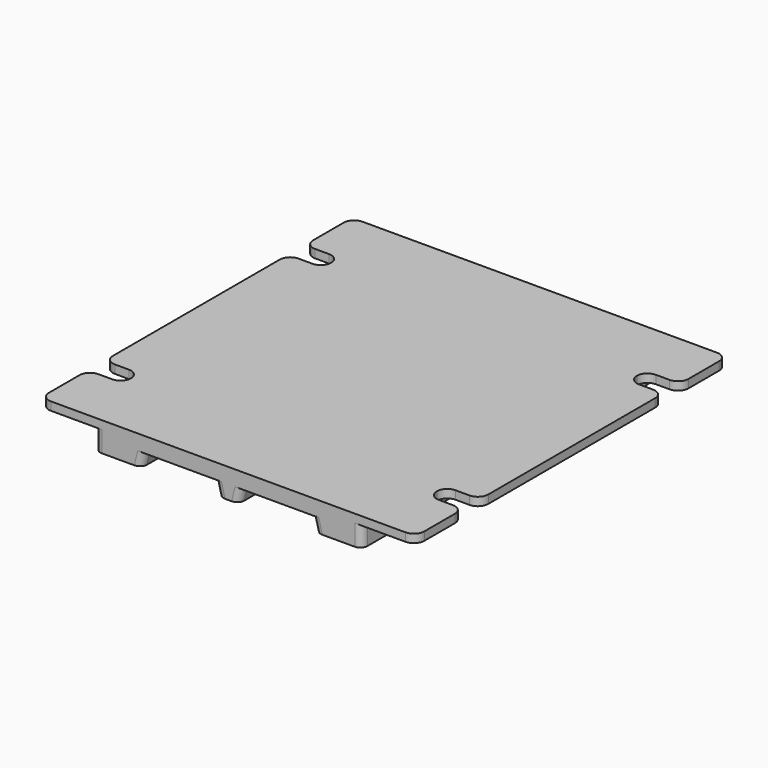
from build123d import *

# Parameters (mm, degrees)
F1_DEPTH = 56
F3_DEPTH = 25
F4_R     = 1.5
F5_R     = 1


with BuildPart() as f1:
    # F0 (on Front) → F1 (new body)
    with BuildSketch(Plane.XZ):
        Polygon((-1.5, 0), (0, 0), (0, 4.2), (-27, 4.2), (-27, 3), (-19.2, 3), (-19.2, 0), (-12.5, 0), (-12, 2), (-2, 2), align=None)
        Polygon((0, 4.2), (0, 0), (1.5, 0), (2, 2), (12, 2), (12.5, 0), (19.2, 0), (19.2, 3), (27, 3), (27, 4.2), align=None)
    extrude(amount=F1_DEPTH)

    # F2 (on face) → F3 (cut)
    with BuildSketch(Plane.XY.offset(4.2)):
        with BuildLine():
            Line((27, -47.5), (27, -44.5))
            Line((27, -44.5), (23.5, -44.5))
            ThreePointArc((23.5, -44.5), (22.4393398282, -44.9393398282), (22, -46))
            ThreePointArc((22, -46), (22.4393398282, -47.0606601718), (23.5, -47.5))
            Line((23.5, -47.5), (27, -47.5))
        make_face()
        with BuildLine():
            Line((27, -11.5), (27, -8.5))
            Line((27, -8.5), (23.5, -8.5))
            ThreePointArc((23.5, -8.5), (22.4393398282, -8.9393398282), (22, -10))
            ThreePointArc((22, -10), (22.4393398282, -11.0606601718), (23.5, -11.5))
            Line((23.5, -11.5), (27, -11.5))
        make_face()
        with BuildLine():
            ThreePointArc((-22, -10), (-22.4393398282, -8.9393398282), (-23.5, -8.5))
            Line((-23.5, -8.5), (-27, -8.5))
            Line((-27, -8.5), (-27, -11.5))
            Line((-27, -11.5), (-23.5, -11.5))
            ThreePointArc((-23.5, -11.5), (-22.4393398282, -11.0606601718), (-22, -10))
        make_face()
        with BuildLine():
            Line((-23.5, -44.5), (-27, -44.5))
            Line((-27, -44.5), (-27, -47.5))
            Line((-27, -47.5), (-23.5, -47.5))
            ThreePointArc((-23.5, -47.5), (-22.4393398282, -47.0606601718), (-22, -46))
            ThreePointArc((-22, -46), (-22.4393398282, -44.9393398282), (-23.5, -44.5))
        make_face()
    extrude(amount=-F3_DEPTH, mode=Mode.SUBTRACT)

    # F4
    f4_edges = [f1.edges().sort_by_distance(p)[0] for p in [
        (-27, -47.5, 3.6),
        (-27, -44.5, 3.6),
        (27, -47.5, 3.6),
        (27, -44.5, 3.6),
        (27, -11.5, 3.6),
        (27, -8.5, 3.6),
        (-27, -11.5, 3.6),
        (-27, -8.5, 3.6),
        (27, -56, 3.6),
        (-27, -56, 3.6),
        (-27, 0, 3.6),
        (27, 0, 3.6),
    ]]
    fillet(f4_edges, radius=F4_R)

    # F5
    f5_edges = [f1.edges().sort_by_distance(p)[0] for p in [
        (12.25, 0, 1),
        (19.2, 0, 1.5),
        (1.75, 0, 1),
        (-1.75, 0, 1),
        (-12.25, 0, 1),
        (-19.2, 0, 1.5),
        (-19.2, -56, 1.5),
        (-12.25, -56, 1),
        (-1.75, -56, 1),
        (1.75, -56, 1),
        (12.25, -56, 1),
        (19.2, -56, 1.5),
    ]]
    fillet(f5_edges, radius=F5_R)


solid = f1.part
